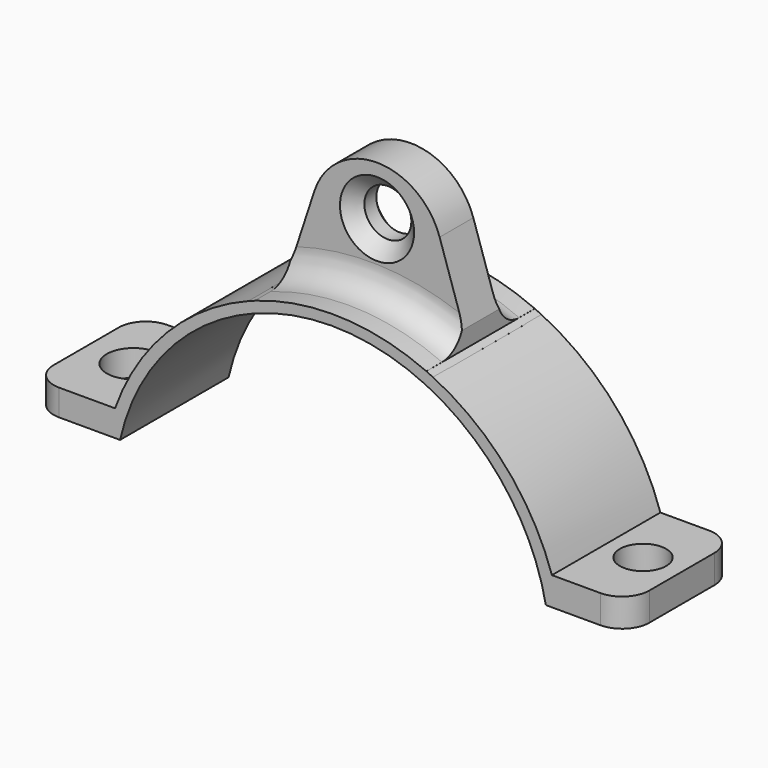
from build123d import *

# Parameters (mm, degrees)
F1_DEPTH  = 3.943235
F3_DEPTH  = 12.7
F4_R      = 5.08
F6_DEPTH  = 12.7
F7_W      = 17.78
F7_H      = 5.3086
F8_DEPTH  = 12.7
F9_DEPTH  = 8.66714
F10_DEPTH = 9.47498
F12_DEPTH = 12.7
F13_DEPTH = 12.7
F14_R     = 4.3985303862
F15_DEPTH = 53.72973
F16_SIZE  = 2.54
F17_SIZE  = 2.54
F18_R     = 5.08
F19_R     = 4.960906564
F19_R_2   = 4.3415616657
F20_DEPTH = 23.4886
F22_DEPTH = 18.208115
F24_DEPTH = 12.7
F26_DEPTH = 20.13737


with BuildPart() as f1:
    # F0 (on Front) → F1 (new body, symmetric)
    with BuildSketch(Plane.XZ):
        with BuildLine():
            Line((-11.7292143404, 26.9492678344), (-17.5938215107, 9.0761780739))
            ThreePointArc((-17.5938215107, 9.0761780739), (0, 11.6662775846), (17.5938215107, 9.0761780739))
            Line((17.5938215107, 9.0761780739), (11.7292143404, 26.9492678344))
            ThreePointArc((11.7292143404, 26.9492678344), (0, 35.4451148535), (-11.7292143404, 26.9492678344))
        make_face()
    extrude(amount=F1_DEPTH, both=True)

    # F2 (on Front) → F3 (join, symmetric)
    with BuildSketch(Plane.XZ):
        with BuildLine():
            Line((36.3047122955, -16.6163872927), (39.93518278, -16.6163872927))
            ThreePointArc((39.93518278, -16.6163872927), (-0.7137528874, 13.5858944169), (-42.1693213284, -15.4993189499))
            Line((-42.1693213284, -15.4993189499), (-39.0973836184, -15.7785862684))
            ThreePointArc((-39.0973836184, -15.7785862684), (-1.101821027, 10.3088316272), (36.3047122955, -16.6163872927))
        make_face()
    extrude(amount=F3_DEPTH, both=True)

    # F4
    f4_edges = [f1.edges().sort_by_distance(p)[0] for p in [
        (0.356921, -3.943235, 13.558065),
        (0.356921, 3.943235, 13.558065),
    ]]
    fillet(f4_edges, radius=F4_R)

    # F5 (on Front) → F6 (join, symmetric)
    with BuildSketch(Plane.XZ):
        Polygon((-39.8543514311, -20.1193168759), (-39.659883827, -15.2054578066), (-57.6343514311, -15.2054578066), (-57.6343514311, -20.1193168759), align=None)
    extrude(amount=F6_DEPTH, both=True)

    # F7 (on Front) → F8 (join, symmetric)
    with BuildSketch(Plane.XZ):
        with Locations((45.0512229579, -18.7627813943)):
            Rectangle(F7_W, F7_H)
    extrude(amount=F8_DEPTH, both=True)

    # F5 (on Front) → F9 (join)
    with BuildSketch(Plane.XZ):
        Polygon((-39.8543514311, -20.1193168759), (-39.659883827, -15.2054578066), (-57.6343514311, -15.2054578066), (-57.6343514311, -20.1193168759), align=None)
    extrude(amount=F9_DEPTH)

    # F7 (on Front) → F10 (join)
    with BuildSketch(Plane.XZ):
        with Locations((45.0512229579, -18.7627813943)):
            Rectangle(F7_W, F7_H)
    extrude(amount=F10_DEPTH)

    # F11 (on Front) → F12 (cut, symmetric)
    with BuildSketch(Plane.XZ):
        with BuildLine():
            ThreePointArc((-40.8051013947, -20.0025010854), (-1.7400987678, -54.2430909447), (38.6715009809, -21.6027013958))
            ThreePointArc((38.6715009809, -21.6027013958), (-0.4185114947, 11.3957328504), (-40.8051013947, -20.0025010854))
        make_face()
    extrude(amount=F12_DEPTH, both=True, mode=Mode.SUBTRACT)

    # F11 (on Front) → F13 (cut, symmetric)
    with BuildSketch(Plane.XZ):
        with BuildLine():
            ThreePointArc((-40.8051013947, -20.0025010854), (-1.7400987678, -54.2430909447), (38.6715009809, -21.6027013958))
            ThreePointArc((38.6715009809, -21.6027013958), (-0.4185114947, 11.3957328504), (-40.8051013947, -20.0025010854))
        make_face()
    extrude(amount=F13_DEPTH, both=True, mode=Mode.SUBTRACT)

    # F14 (on face) → F15 (cut, symmetric)
    with BuildSketch(Plane.XZ.offset(3.943235)):
        with Locations((0, 26.1365994811)):
            Circle(F14_R)
    extrude(amount=F15_DEPTH, both=True, mode=Mode.SUBTRACT)

    # F16
    f16_edges = [f1.edges().sort_by_distance(p)[0] for p in [
        (-4.39853, -3.943235, 26.136599),
    ]]
    chamfer(f16_edges, length=F16_SIZE)

    # F17
    f17_edges = [f1.edges().sort_by_distance(p)[0] for p in [
        (-4.39853, 3.943235, 26.136599),
    ]]
    chamfer(f17_edges, length=F17_SIZE)

    # F18
    f18_edges = [f1.edges().sort_by_distance(p)[0] for p in [
        (53.941223, 12.7, -18.762781),
        (53.941223, -12.7, -18.762781),
        (-57.634351, 12.7, -17.662387),
        (-57.634351, -12.7, -17.662387),
    ]]
    fillet(f18_edges, radius=F18_R)

    # F19 (on face) → F20 (cut)
    with BuildSketch(Plane.XY.offset(-15.2054578066)):
        with Locations((-48.8061010838, 0)):
            Circle(F19_R)
        with Locations((46.67250067, 0)):
            Circle(F19_R_2)
    extrude(amount=-F20_DEPTH, mode=Mode.SUBTRACT)

    # F21 (on Front) → F22 (cut, symmetric)
    with BuildSketch(Plane.XZ):
        with BuildLine():
            Line((-41.792165488, -23.9205155522), (39.0426814556, -25.9368028492))
            ThreePointArc((39.0426814556, -25.9368028492), (-0.4636625416, 11.5973705937), (-41.792165488, -23.9205155522))
        make_face()
    extrude(amount=F22_DEPTH, both=True, mode=Mode.SUBTRACT)

    # F23 (on Front) → F24 (cut, symmetric)
    with BuildSketch(Plane.XZ):
        Polygon((-17.0922335237, 10.6045696884), (-15.9068014473, 11.0168391839), (-15.9068014473, 14.8834753782), align=None)
    extrude(amount=F24_DEPTH, both=True, mode=Mode.SUBTRACT)

    # F25 (on Front) → F26 (cut, symmetric)
    with BuildSketch(Plane.XZ):
        Polygon((17.5980012864, 9.2452950776), (16.2439439446, 13.5627323762), (16.2439439446, 9.859982878), align=None)
    extrude(amount=F26_DEPTH, both=True, mode=Mode.SUBTRACT)


solid = f1.part
